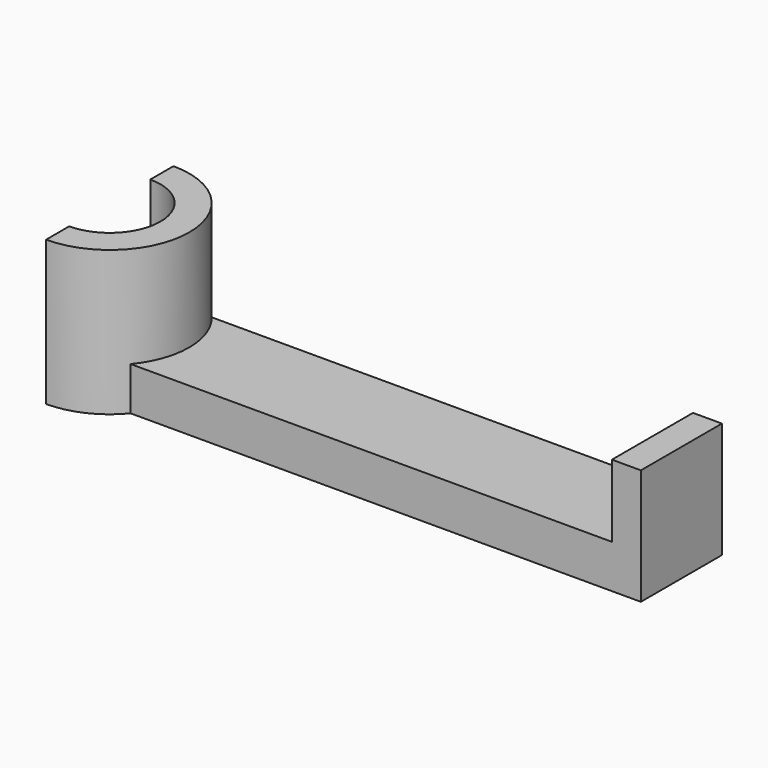
from build123d import *

# Parameters (mm, degrees)
F1_DEPTH = 25.4
F3_DEPTH = 7.62
F4_W     = 5.08
F4_H     = 17.78
F5_DEPTH = 12.7


with BuildPart() as f1:
    # F0 (on Top) → F1 (new body)
    with BuildSketch(Plane.XY):
        with BuildLine():
            ThreePointArc((0, 8.89), (8.89, 0), (0, -8.89))
            Line((0, -8.89), (0, -13.97))
            ThreePointArc((0, -13.97), (13.97, 0), (0, 13.97))
            Line((0, 13.97), (0, 8.89))
        make_face()
        with BuildLine():
            ThreePointArc((0, 8.89), (8.89, 0), (0, -8.89))
            Line((0, -8.89), (0, -13.97))
            ThreePointArc((0, -13.97), (13.97, 0), (0, 13.97))
            Line((0, 13.97), (0, 8.89))
        make_face()
    extrude(amount=F1_DEPTH)

    # F2 (on face) → F3 (join)
    with BuildSketch(Plane(origin=(0, 0, 0), x_dir=(1, 0, 0), z_dir=(0, 0, -1))):
        with BuildLine():
            Line((100.33, 8.89), (10.7763073453, 8.89))
            ThreePointArc((10.7763073453, 8.89), (13.97, 0), (10.7763073453, -8.89))
            Line((10.7763073453, -8.89), (100.33, -8.89))
            Line((100.33, -8.89), (100.33, 8.89))
        make_face()
    extrude(amount=-F3_DEPTH)

    # F4 (on face) → F5 (join)
    with BuildSketch(Plane.XY.offset(7.62)):
        with Locations((97.79, 0)):
            Rectangle(F4_W, F4_H)
    extrude(amount=F5_DEPTH)


solid = f1.part
